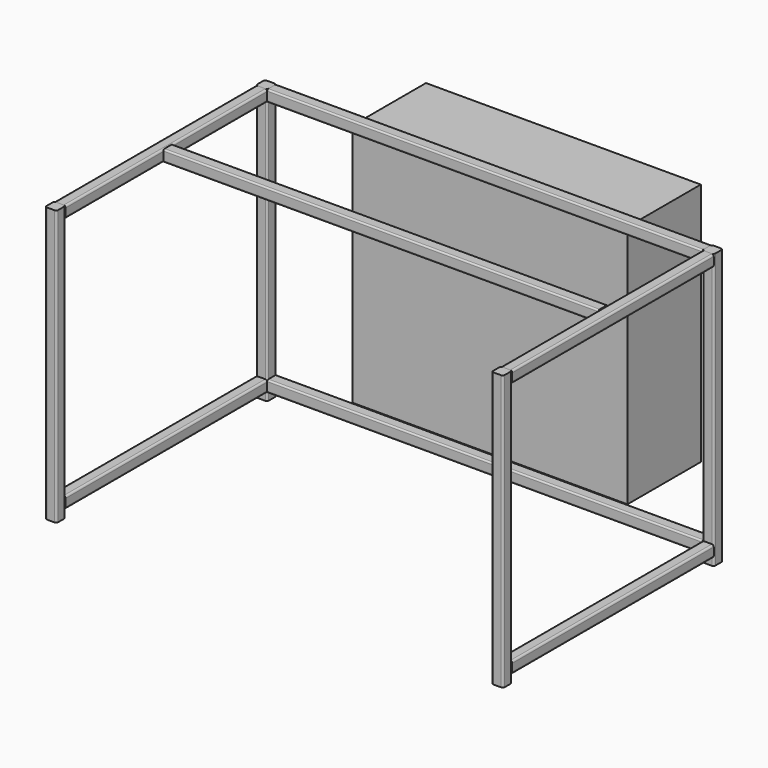
from build123d import *

# Parameters (mm, degrees)
F0_W      = 38.1
F0_H      = 38.1
F1_DEPTH  = 914.4
F2_R      = 6.35
F3_W      = 838.2
F3_H      = 38.1
F4_DEPTH  = 38.1
F5_R      = 6.35
F9_W      = 1447.8
F9_H      = 38.1
F10_DEPTH = 38.1
F11_R     = 5.08
F14_W     = 304.8
F14_H     = 812.8
F15_DEPTH = 914.4


with BuildPart() as f1:
    # F0 (on Top) → F1 (new body)
    with BuildSketch(Plane.XY):
        with Locations((-742.95, 712.510761)):
            Rectangle(F0_W, F0_H)
        with Locations((-742.95, -163.789239)):
            Rectangle(F0_W, F0_H)
        with Locations((742.95, -163.789239)):
            Rectangle(F0_W, F0_H)
        with Locations((742.95, 712.510761)):
            Rectangle(F0_W, F0_H)
    extrude(amount=F1_DEPTH)

    # F2
    f2_edges = [f1.edges().sort_by_distance(p)[0] for p in [
        (-762, -182.839239, 457.2),
        (-723.9, -182.839239, 457.2),
        (-723.9, -144.739239, 457.2),
        (-762, 693.460761, 457.2),
        (-723.9, 693.460761, 457.2),
        (-723.9, 731.560761, 457.2),
        (723.9, -182.839239, 457.2),
        (762, -182.839239, 457.2),
        (762, -144.739239, 457.2),
        (723.9, 693.460761, 457.2),
        (762, 693.460761, 457.2),
        (762, 731.560761, 457.2),
        (-762, -144.739239, 457.2),
        (723.9, -144.739239, 457.2),
        (723.9, 731.560761, 457.2),
        (-762, 731.560761, 457.2),
    ]]
    fillet(f2_edges, radius=F2_R)


with BuildPart() as f4:
    # F3 (on face) → F4 (new body)
    with BuildSketch(Plane.YZ.offset(762)):
        with Locations((274.360761, 895.35)):
            Rectangle(F3_W, F3_H)
    extrude(amount=-F4_DEPTH)

    # F5
    f5_edges = [f4.edges().sort_by_distance(p)[0] for p in [
        (762, 274.360761, 914.4),
        (762, 274.360761, 876.3),
        (723.9, 274.360761, 914.4),
        (723.9, 274.360761, 876.3),
    ]]
    fillet(f5_edges, radius=F5_R)


with BuildPart() as f6_1:
    # F6: copy of F4
    add(f4.part.moved(Location((-1485.9, 0, 0))))


with BuildPart() as f7_1:
    # F7: copy of F4
    add(f4.part.moved(Location((0, 0, -850.9))))


with BuildPart() as f8_1:
    # F8: copy of F7_1
    add(f7_1.part.moved(Location((-1485.9, 0, 0))))


with BuildPart() as f10:
    # F9 (on face) → F10 (new body)
    with BuildSketch(Plane(origin=(0, 731.560761, 0), x_dir=(-1, 0, 0), z_dir=(0, 1, 0))):
        with Locations((0, 895.35)):
            Rectangle(F9_W, F9_H)
    extrude(amount=-F10_DEPTH)

    # F11
    f11_edges = [f10.edges().sort_by_distance(p)[0] for p in [
        (0, 731.560761, 914.4),
        (0, 693.460761, 914.4),
        (0, 731.560761, 876.3),
        (0, 693.460761, 876.3),
    ]]
    fillet(f11_edges, radius=F11_R)


with BuildPart() as f12_1:
    # F12: copy of F10
    add(f10.part.moved(Location((0, 0, -850.9))))


with BuildPart() as f13_1:
    # F13: copy of F10
    add(f10.part.moved(Location((0, -431.8, 0))))


with BuildPart() as f15:
    # F14 (on face) → F15 (new body)
    with BuildSketch(Plane(origin=(-762, 0, 0), x_dir=(0, -1, 0), z_dir=(-1, 0, 0))):
        with Locations((-883.960761, 469.9)):
            Rectangle(F14_W, F14_H)
    extrude(amount=-F15_DEPTH)


with BuildPart() as f15_1:
    # F16: moved
    add(f15.part.moved(Location((292.1, 0, 0))))


solid = Compound([f1.part, f4.part, f6_1.part, f7_1.part, f8_1.part, f10.part, f12_1.part, f13_1.part, f15_1.part])
